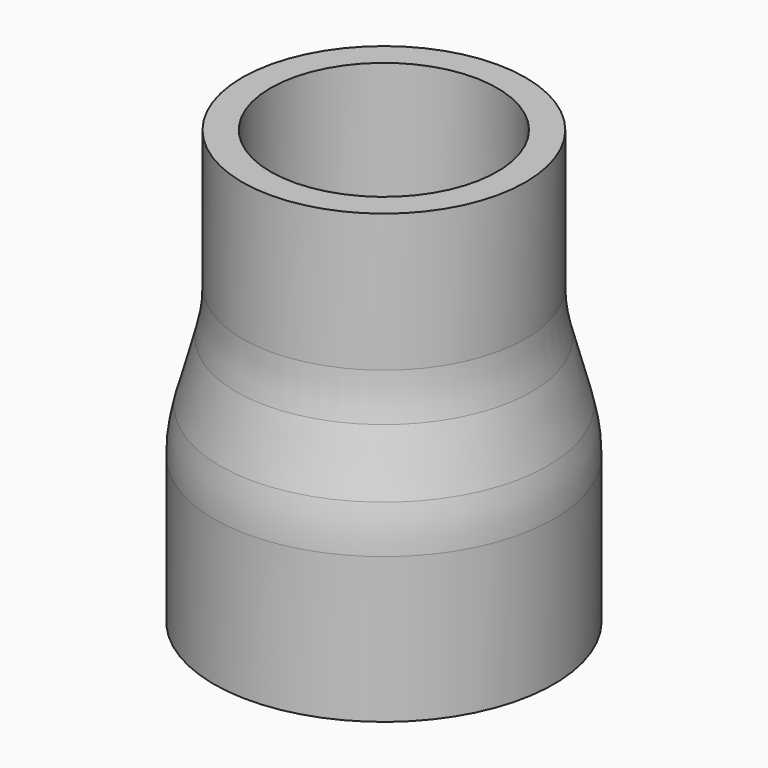
from build123d import *


with BuildPart() as f1:
    # F0 (on Front) → F1 (revolve)
    with BuildSketch(Plane.XZ):
        with BuildLine():
            Line((-30, 0), (-25, 0))
            Line((-25, 0), (-25, 25))
            ThreePointArc((-25, 25), (-24.734, 28.986133), (-23.940716, 32.901578))
            Line((-23.940716, 32.901578), (-21.059284, 43.455258))
            ThreePointArc((-21.059284, 43.455258), (-20.266, 47.370703), (-20, 51.356836))
            Line((-20, 51.356836), (-20, 76.356836))
            Line((-20, 76.356836), (-25, 76.356836))
            Line((-25, 76.356836), (-25, 52.027135))
            ThreePointArc((-25, 52.027135), (-25.266, 48.041002), (-26.059284, 44.125556))
            Line((-26.059284, 44.125556), (-28.940716, 33.571877))
            ThreePointArc((-28.940716, 33.571877), (-29.734, 29.656432), (-30, 25.670299))
            Line((-30, 25.670299), (-30, 0))
        make_face()
    revolve(axis=Axis((0, 0, 2.329317), (0, 0, -1)))


solid = f1.part
